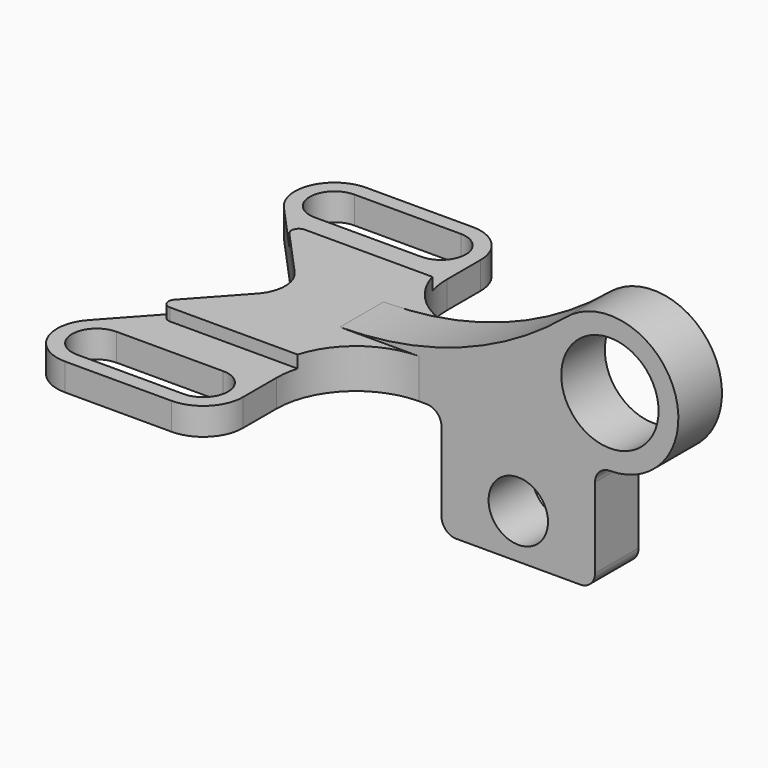
from build123d import *

# Parameters (mm, degrees)
F1_DEPTH = 11
F3_DEPTH = 5
F4_R     = 12
F4_R_2   = 19.649639
F5_DEPTH = 11
F7_DEPTH = 16
F8_W     = 9
F8_H     = 5
F9_DEPTH = 136.650639


with BuildPart() as f1:
    # F0 (on Top) → F1 (new body)
    with BuildSketch(Plane.XY):
        with BuildLine():
            Line((-16, 76), (-59, 76))
            ThreePointArc((-59, 76), (-73.632156, 66.473021), (-70.839282, 49.237501))
            Line((-70.839282, 49.237501), (-34.640628, 9.417187))
            ThreePointArc((-34.640628, 9.417187), (-31.941838, 5.048207), (-31, 0))
            ThreePointArc((-31, 0), (-31.941838, -5.048207), (-34.640628, -9.417187))
            Line((-34.640628, -9.417187), (-70.839282, -49.237501))
            ThreePointArc((-70.839282, -49.237501), (-73.632156, -66.473021), (-59, -76))
            Line((-59, -76), (-16, -76))
            ThreePointArc((-16, -76), (-4.686292, -71.313708), (0, -60))
            Line((0, -60), (0, 0))
            Line((0, 0), (0, 60))
            ThreePointArc((0, 60), (-4.686292, 71.313708), (-16, 76))
        make_face()
        with BuildLine():
            Line((-59, -50), (-16, -50))
            ThreePointArc((-16, -50), (-6, -60), (-16, -70))
            Line((-16, -70), (-59, -70))
            ThreePointArc((-59, -70), (-69, -60), (-59, -50))
        make_face(mode=Mode.SUBTRACT)
        with BuildLine():
            ThreePointArc((-59, 50), (-69, 60), (-59, 70))
            Line((-59, 70), (-16, 70))
            ThreePointArc((-16, 70), (-6, 60), (-16, 50))
            Line((-16, 50), (-59, 50))
        make_face(mode=Mode.SUBTRACT)
    extrude(amount=F1_DEPTH)

    # F2 (on face) → F3 (join)
    with BuildSketch(Plane.XY.offset(11)):
        with BuildLine():
            ThreePointArc((-50.206183, 34), (-52.949713, 32.213692), (-52.426049, 28.982031))
            Line((-52.426049, 28.982031), (-34.640628, 9.417187))
            ThreePointArc((-34.640628, 9.417187), (-31, 0), (-34.640628, -9.417187))
            Line((-34.640628, -9.417187), (-52.426049, -28.982031))
            ThreePointArc((-52.426049, -28.982031), (-52.949713, -32.213692), (-50.206183, -34))
            Line((-50.206183, -34), (0, -34))
            Line((0, -34), (0, 34))
            Line((0, 34), (-50.206183, 34))
        make_face()
    extrude(amount=F3_DEPTH)

    # F4 (on Front) → F5 (join, symmetric)
    with BuildSketch(Plane.XZ):
        with BuildLine():
            Line((0, 16), (0, 0))
            Line((0, 0), (35, 0))
            ThreePointArc((35, 0), (39.242641, -1.757359), (41, -6))
            Line((41, -6), (41, -38))
            ThreePointArc((41, -38), (42.757359, -42.242641), (47, -44))
            Line((47, -44), (97, -44))
            ThreePointArc((97, -44), (101.242641, -42.242641), (103, -38))
            Line((103, -38), (103, -5.649639))
            ThreePointArc((103, -5.649639), (104.757359, -1.406998), (109, 0.350361))
            ThreePointArc((109, 0.350361), (134.983932, 37.451867), (91.23509, 49.187508))
            ThreePointArc((91.23509, 49.187508), (48.541869, 24.554554), (0, 16))
        make_face()
        with Locations((72, -26)):
            Circle(F4_R, mode=Mode.SUBTRACT)
        with Locations((109, 28)):
            Circle(F4_R_2, mode=Mode.SUBTRACT)
    extrude(amount=F5_DEPTH, both=True)

    # F6 (on Top) → F7 (join, through all)
    with BuildSketch(Plane.XY):
        with BuildLine():
            ThreePointArc((32, 11), (9.372583, 20.372583), (0, 43))
            Line((0, 43), (0, 34))
            Line((0, 34), (0, 11))
            Line((0, 11), (32, 11))
        make_face()
        with BuildLine():
            Line((0, -34), (0, -43))
            ThreePointArc((0, -43), (9.372583, -20.372583), (32, -11))
            Line((32, -11), (0, -11))
            Line((0, -11), (0, -34))
        make_face()
    extrude(amount=F7_DEPTH)

    # F8 (on Right) → F9 (cut, through all)
    with BuildSketch(Plane.YZ):
        with Locations((38.5, 13.5)):
            Rectangle(F8_W, F8_H)
        with Locations((-38.5, 13.5)):
            Rectangle(F8_W, F8_H)
    extrude(amount=F9_DEPTH, mode=Mode.SUBTRACT)


solid = f1.part
